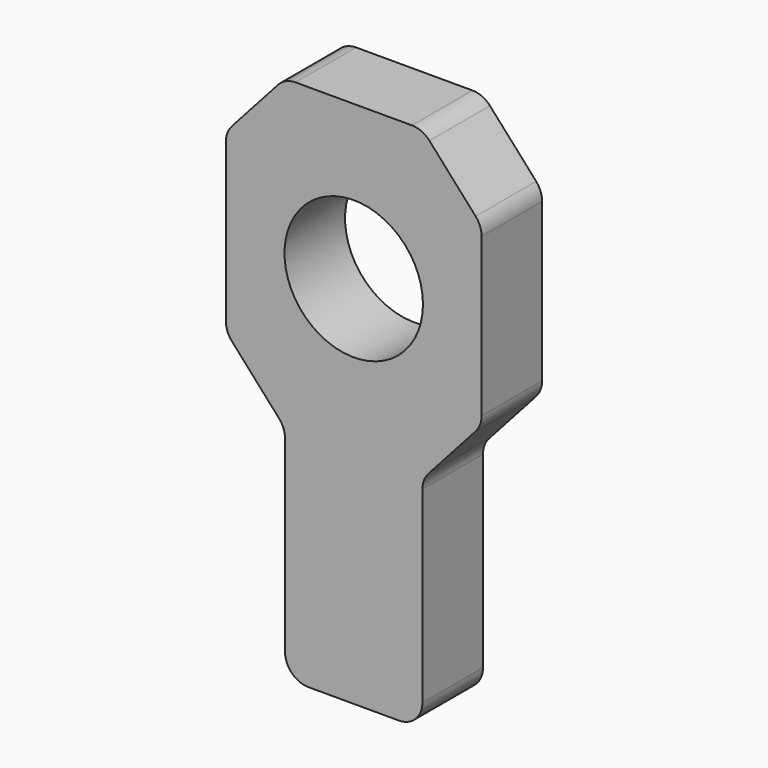
from build123d import *

# Parameters (mm, degrees)
F0_R     = 7.493
F1_DEPTH = 8.1915


with BuildPart() as f1:
    # F0 (on Front) → F1 (new body)
    with BuildSketch(Plane.XZ):
        with BuildLine():
            Line((6.301216, 16.6624), (-6.301216, 16.6624))
            ThreePointArc((-6.301216, 16.6624), (-7.33618, 16.44198), (-8.191516, 15.818975))
            Line((-8.191516, 15.818975), (-13.1933, 10.246057))
            ThreePointArc((-13.1933, 10.246057), (-13.67502, 9.457842), (-13.843, 8.549482))
            Line((-13.843, 8.549482), (-13.843, -8.549482))
            ThreePointArc((-13.843, -8.549482), (-13.67502, -9.457842), (-13.1933, -10.246057))
            Line((-13.1933, -10.246057), (-8.084228, -15.938513))
            ThreePointArc((-8.084228, -15.938513), (-7.602508, -16.726727), (-7.434528, -17.635088))
            Line((-7.434528, -17.635088), (-7.434528, -37.973))
            ThreePointArc((-7.434528, -37.973), (-6.69058, -39.769051), (-4.894528, -40.513))
            Line((-4.894528, -40.513), (4.894528, -40.513))
            ThreePointArc((4.894528, -40.513), (6.69058, -39.769051), (7.434528, -37.973))
            Line((7.434528, -37.973), (7.434528, -17.635088))
            ThreePointArc((7.434528, -17.635088), (7.602508, -16.726727), (8.084228, -15.938513))
            Line((8.084228, -15.938513), (13.1933, -10.246057))
            ThreePointArc((13.1933, -10.246057), (13.67502, -9.457842), (13.843, -8.549482))
            Line((13.843, -8.549482), (13.843, 8.549482))
            ThreePointArc((13.843, 8.549482), (13.67502, 9.457842), (13.1933, 10.246057))
            Line((13.1933, 10.246057), (8.191516, 15.818975))
            ThreePointArc((8.191516, 15.818975), (7.33618, 16.44198), (6.301216, 16.6624))
        make_face()
        Circle(F0_R, mode=Mode.SUBTRACT)
    extrude(amount=F1_DEPTH)


solid = f1.part
